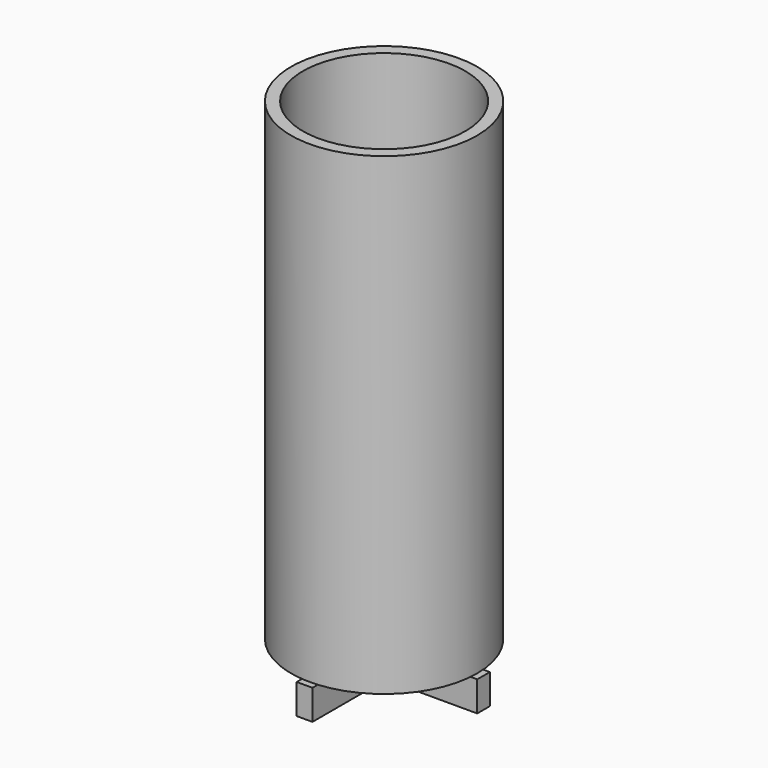
from build123d import *

# Parameters (mm, degrees)
F0_R     = 74.93
F0_R_2   = 65.405
F1_DEPTH = 381
F2_W     = 40.781037882
F2_H     = 18.9182572067
F3_DEPTH = 6.35
F4_COUNT = 4
F5_W     = 4.7625
F5_H     = 441.4388570249
F6_DEPTH = 6.35
F7_COUNT = 2
F0_R_3   = 23.0898373335
F9_DEPTH = 38.1
F10_T    = -2.54


with BuildPart() as f1:
    # F0 (on Top) → F1 (new body)
    with BuildSketch(Plane.XY):
        Circle(F0_R)
        Circle(F0_R_2, mode=Mode.SUBTRACT)
    extrude(amount=F1_DEPTH)


with BuildPart() as f3:
    # F2 (on Front) → F3 (new body, symmetric)
    with BuildSketch(Plane.XZ):
        Polygon((-80.01, -24.1732522845), (0, -24.1732522845), (80.01, -24.1732522845), (80.01, 0), (63.8755559921, 0), (23.0945181102, 0), (23.0898373335, 0), (0, 0), (-23.0898373335, 0), (-23.0945181102, 0), (-63.8755559921, 0), (-74.93, 0), (-80.01, 0), align=None)
        with Locations((43.4850370511, 9.4591286033)):
            Rectangle(F2_W, F2_H)
        with Locations((-43.4850370511, 9.4591286033)):
            Rectangle(F2_W, F2_H)
    extrude(amount=F3_DEPTH, both=True)


with BuildPart() as f4_1:
    # F4: instance of F3
    add(f3.part.rotate(Axis((0, 0, 63.1007701159), (0, 0, 1)), 1 * 360 / F4_COUNT))


with BuildPart() as f4_2:
    # F4: instance of F3
    add(f3.part.rotate(Axis((0, 0, 63.1007701159), (0, 0, 1)), 2 * 360 / F4_COUNT))


with BuildPart() as f4_3:
    # F4: instance of F3
    add(f3.part.rotate(Axis((0, 0, 63.1007701159), (0, 0, 1)), 3 * 360 / F4_COUNT))


with BuildPart() as f6:
    # F5 (on Front) → F6 (new body, symmetric)
    with BuildSketch(Plane.XZ):
        with Locations((97.63125, 166.6305714875)):
            Rectangle(F5_W, F5_H)
    extrude(amount=F6_DEPTH, both=True)


with BuildPart() as f7_1:
    # F7: instance of F6
    add(f6.part.rotate(Axis((0, 0, 10.6305740774), (0, 0, -1)), 1 * 360 / F7_COUNT))


with BuildPart() as f9:
    # F0 (on Top) → F9 (new body)
    with BuildSketch(Plane.XY):
        Circle(F0_R_3)
    extrude(amount=F9_DEPTH)

    # F10
    f10_openings = [f9.faces().sort_by_distance(p)[0] for p in [
        (0, 0, 38.1),
    ]]
    offset(amount=F10_T, openings=f10_openings)


solid = Compound([f1.part, f3.part, f4_1.part, f4_2.part, f4_3.part, f9.part])
